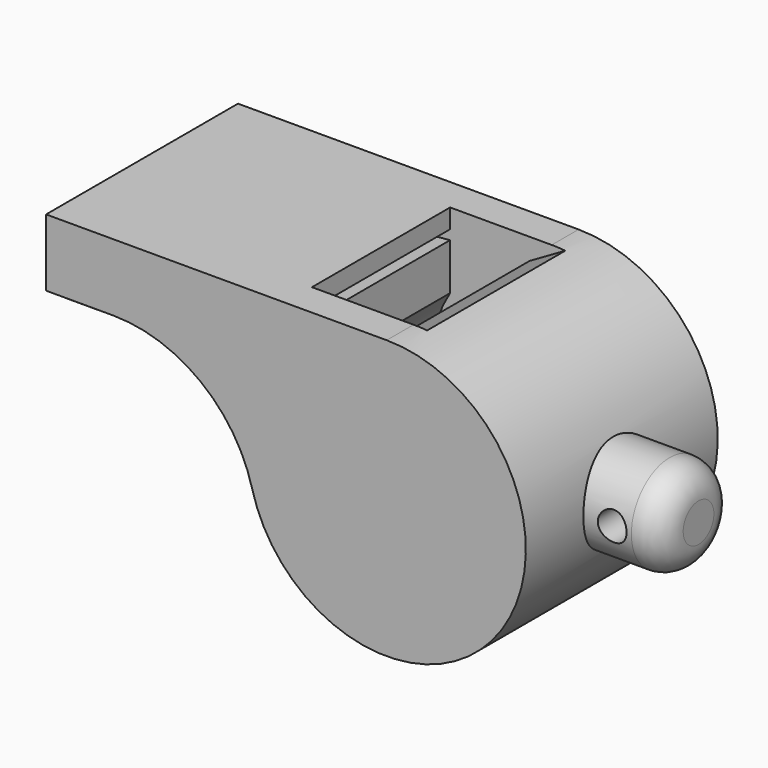
from build123d import *

# Parameters (mm, degrees)
F1_DEPTH      = 12.5
F3_DEPTH      = 9
F4_W          = 10
F4_H          = 5
F6_R          = 3
F7_R          = 1.5
F8_DEPTH      = 12.5010001
F8_DEPTH_BACK = 12.5010001
F9_W          = 4
F9_H          = 20
F10_DEPTH     = 2
F11_R         = 0.7
F12_R         = 15


with BuildPart() as f1:
    # F0 (on Front) → F1 (new body, symmetric)
    with BuildSketch(Plane.XZ):
        with BuildLine():
            Line((-35.5, 7.5), (-12.409673646, 7.5))
            ThreePointArc((-12.409673646, 7.5), (7.1239034244, -12.6293309403), (0, 14.5))
            Line((0, 14.5), (-35.5, 14.5))
            Line((-35.5, 14.5), (-35.5, 7.5))
        make_face()
    extrude(amount=F1_DEPTH, both=True)

    # F2 (on Front) → F3 (cut, symmetric)
    with BuildSketch(Plane.XZ):
        with BuildLine():
            Line((-10.5897720282, 11.5), (-10.5897720282, 6.6412896632))
            ThreePointArc((-10.5897720282, 6.6412896632), (7.0386819061, -10.3299059543), (-2.3066189308, 12.2853371589))
            Line((-2.3066189308, 12.2853371589), (1.4102279718, 14.4312597187))
            ThreePointArc((1.4102279718, 14.4312597187), (0.7059511596, 14.4828047339), (0, 14.5))
            Line((0, 14.5), (-10.5897720282, 14.5))
            Line((-10.5897720282, 14.5), (-10.5897720282, 12.5))
            Line((-10.5897720282, 12.5), (-35.5, 12.5))
            Line((-35.5, 12.5), (-35.5, 9))
            Line((-35.5, 9), (-10.5897720282, 11.5))
        make_face()
    extrude(amount=F3_DEPTH, both=True, mode=Mode.SUBTRACT)

    # F4 (on Front) → F5 (revolve)
    with BuildSketch(Plane.XZ):
        with Locations((17.5, 2.5)):
            Rectangle(F4_W, F4_H)
    revolve(axis=Axis((17.5, 0, 0), (-1, 0, 0)))

    # F6
    f6_edges = [f1.edges().sort_by_distance(p)[0] for p in [
        (22.5, 0, -5),
    ]]
    fillet(f6_edges, radius=F6_R)

    # F7 (on Front) → F8 (cut, two sides)
    with BuildSketch(Plane.XZ) as f8_sk:
        with Locations((17.5, 0)):
            Circle(F7_R)
    extrude(amount=-F8_DEPTH, mode=Mode.SUBTRACT)
    extrude(f8_sk.sketch, amount=F8_DEPTH_BACK, mode=Mode.SUBTRACT)

    # F9 (on face) → F10 (join)
    with BuildSketch(Plane(origin=(0, 0, 7.5), x_dir=(1, 0, 0), z_dir=(0, 0, -1))):
        with Locations((-33.5, 0)):
            Rectangle(F9_W, F9_H)
    extrude(amount=F10_DEPTH)

    # F11
    f11_edges = [f1.edges().sort_by_distance(p)[0] for p in [
        (-33.5, -10, 7.5),
        (-31.5, 0, 7.5),
        (-33.5, 10, 7.5),
        (-33.5, 10, 5.5),
        (-31.5, 0, 5.5),
        (-33.5, -10, 5.5),
        (-31.5, 10, 6.5),
        (-31.5, -10, 6.5),
    ]]
    fillet(f11_edges, radius=F11_R)

    # F12
    f12_edges = [f1.edges().sort_by_distance(p)[0] for p in [
        (-12.409674, 0, 7.5),
    ]]
    fillet(f12_edges, radius=F12_R)

    # F13 (on Front) → F14 (revolve)
    with BuildSketch(Plane.XZ):
        with BuildLine():
            Line((0, -12.6), (0, -1.6))
            ThreePointArc((0, -1.6), (-5.5, -7.1), (0, -12.6))
        make_face()
    revolve(axis=Axis((0, 0, -7.1), (0, 0, -1)))


solid = f1.part
